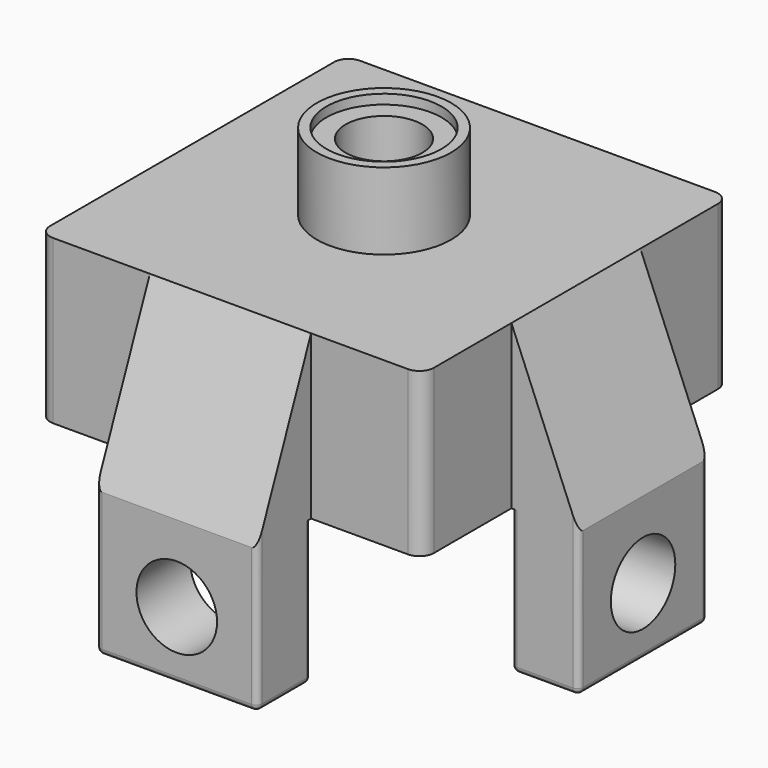
from build123d import *

# Parameters (mm, degrees)
SKETCH_W           = 40
SKETCH_H           = 40
PAD_DEPTH          = 17
SKETCH001_R        = 7
PAD001_DEPTH       = 8
SKETCH002_R        = 4
POCKET_DEPTH       = 25
CYLINDER_R         = 6
CYLINDER_DEPTH     = 1
PAD002_DEPTH       = 8.4
SKETCH004_R        = 4.2
POCKET001_DEPTH    = 7
PAD003_DEPTH       = 8.4
SKETCH006_R        = 4.2
POCKET002_DEPTH    = 7
POCKET003_DEPTH    = 8
POLARPATTERN_COUNT = 4
FILLET_R           = 1
FILLET001_R        = 1.5
FILLET002_R        = 0.6


with BuildPart() as part:
    # Sketch → Pad (new body)
    with BuildSketch(Plane.XY):
        Rectangle(SKETCH_W, SKETCH_H)
    extrude(amount=PAD_DEPTH)

    # Sketch001 (on Face6 of Pad) → Pad001 (join)
    with BuildSketch(Plane.XY.offset(17)):
        Circle(SKETCH001_R)
    extrude(amount=PAD001_DEPTH)

    # Sketch002 (on Face8 of Pad001) → Pocket (cut)
    with BuildSketch(Plane.XY.offset(25)):
        Circle(SKETCH002_R)
    extrude(amount=-POCKET_DEPTH, mode=Mode.SUBTRACT)

    # Cylinder → Cylinder (cut)
    with BuildSketch(Plane.XY.offset(24)):
        Circle(CYLINDER_R)
    extrude(amount=CYLINDER_DEPTH, mode=Mode.SUBTRACT)

    # Sketch003 → Pad002 (join, symmetric)
    with BuildSketch(Plane.XZ):
        Polygon((20, 17), (27, 0), (27, -15), (20, -15), align=None)
    extrude(amount=PAD002_DEPTH, both=True)

    # Sketch004 (on Face16 of Pad002) → Pocket001 (cut)
    with BuildSketch(Plane(origin=(27, 0, 24), x_dir=(0, 1, 0), z_dir=(1, 0, 0))):
        with Locations((0, -32)):
            Circle(SKETCH004_R)
    extrude(amount=-POCKET001_DEPTH, mode=Mode.SUBTRACT)

    # Sketch005 → Pad003 (join, symmetric)
    with BuildSketch(Plane.YZ):
        Polygon((-20, 17), (-27, 0), (-27, -15), (-20, -15), align=None)
    extrude(amount=PAD003_DEPTH, both=True)

    # Sketch006 (on Face17 of Pad003) → Pocket002 (cut)
    with BuildSketch(Plane(origin=(0, -27, 24), x_dir=(1, 0, 0), z_dir=(0, -1, 0))):
        with Locations((0, -32)):
            Circle(SKETCH006_R)
    extrude(amount=-POCKET002_DEPTH, mode=Mode.SUBTRACT)

    # Sketch007 (on Face4 of Pocket002) → Pocket003 (cut)
    with BuildSketch(Plane(origin=(0, 0, 0), x_dir=(1, 0, 0), z_dir=(0, 0, -1))):
        with BuildLine():
            ThreePointArc((5.656854, 2), (4.242641, 4.242641), (2, 5.656854))
            Line((2, 18), (2, 5.656854))
            Line((2, 18), (18, 18))
            Line((18, 18), (18, 2))
            Line((18, 2), (5.656854, 2))
        make_face()
    pocket003 = extrude(amount=-POCKET003_DEPTH, mode=Mode.SUBTRACT)

    # PolarPattern: Pocket003 ×4 about axis
    polarpattern_axis = Axis((0, 0, 0), (0, 0, -1))
    for i in range(1, POLARPATTERN_COUNT):
        add(pocket003.rotate(polarpattern_axis, i * 360 / POLARPATTERN_COUNT), mode=Mode.SUBTRACT)

    # Fillet
    fillet_edges = [part.edges().sort_by_distance(p)[0] for p in [
        (5.656854, -2, 4),
        (2, -5.656854, 4),
        (2, -18, 4),
        (18, -18, 4),
        (18, -2, 4),
        (5.656854, 2, 4),
        (18, 2, 4),
        (18, 18, 4),
        (2, 18, 4),
        (2, 5.656854, 4),
        (-2, 5.656854, 4),
        (-18, 2, 4),
        (-18, 18, 4),
        (-2, 18, 4),
        (-5.656854, 2, 4),
        (-5.656854, -2, 4),
        (-2, -5.656854, 4),
        (-2, -18, 4),
        (-18, -18, 4),
        (-18, -2, 4),
    ]]
    fillet(fillet_edges, radius=FILLET_R)

    # Fillet001
    fillet001_edges = [part.edges().sort_by_distance(p)[0] for p in [
        (20, 20, 8.5),
        (-20, 20, 8.5),
        (-20, -20, 8.5),
        (20, -20, 8.5),
    ]]
    fillet(fillet001_edges, radius=FILLET001_R)

    # Fillet002
    fillet002_edges = [part.edges().sort_by_distance(p)[0] for p in [
        (23.5, -8.4, -15),
        (23.5, 8.4, -15),
        (8.4, -23.5, -15),
        (-8.4, -23.5, -15),
        (0, -27, -15),
        (0, -20, -15),
        (27, 0, -15),
        (20, 0, -15),
        (27, -8.4, -7.5),
        (20, -8.4, -7.5),
        (27, 8.4, -7.5),
        (20, 8.4, -7.5),
        (8.4, -20, -7.5),
        (8.4, -27, -7.5),
        (-8.4, -20, -7.5),
        (-8.4, -27, -7.5),
    ]]
    fillet(fillet002_edges, radius=FILLET002_R)


solid = part.part
